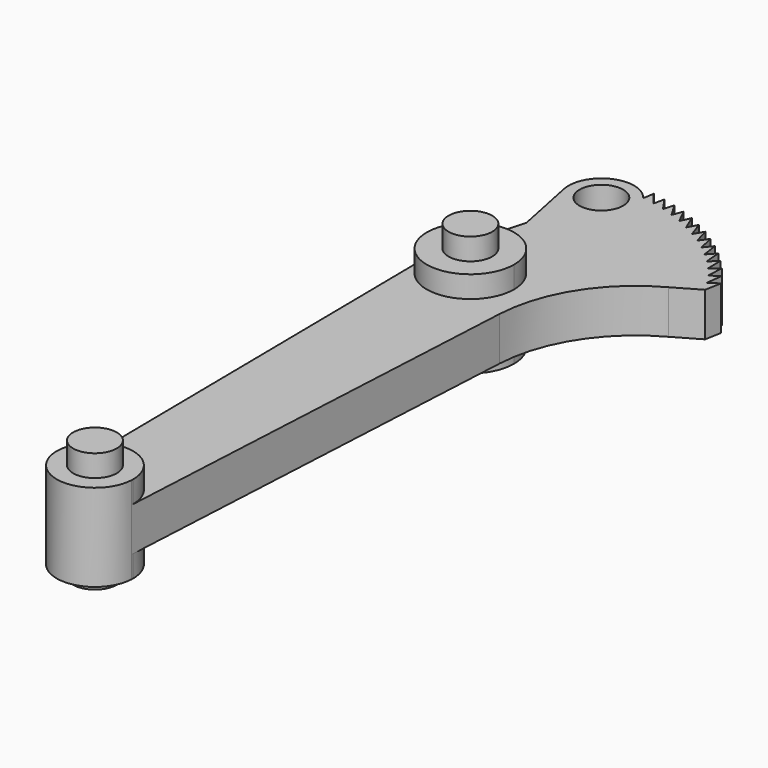
from build123d import *

# Parameters (mm, degrees)
F0_R     = 1.5875
F1_DEPTH = 1.5875
F2_DEPTH = 3.175
F3_DEPTH = 4.7625
F4_DEPTH = 3.96875
F5_DEPTH = 4.7625
F6_DEPTH = 3.96875


with BuildPart() as f1:
    # F0 (on Top) → F1 (new body, symmetric)
    with BuildSketch(Plane.XY):
        with BuildLine():
            ThreePointArc((-2.777937, -0.032304), (-0.016152, 2.778078), (2.778125, 0))
            ThreePointArc((2.778125, 0), (2.777173, -0.072723), (2.774318, -0.145396))
            Line((2.774318, -0.145396), (4.420393, 31.263601))
            ThreePointArc((4.420393, 31.263601), (6.012684, 36.252765), (9.849166, 39.817669))
            Line((9.849166, 39.817669), (11.676115, 40.872458))
            Line((11.676115, 40.872458), (11.892255, 42.049692))
            Line((11.892255, 42.049692), (11.21562, 41.613591))
            Line((11.21562, 41.613591), (11.355159, 42.80234))
            Line((11.355159, 42.80234), (10.70815, 42.323385))
            Line((10.70815, 42.323385), (10.770505, 43.518671))
            Line((10.770505, 43.518671), (10.155831, 42.998868))
            Line((10.155831, 42.998868), (10.14074, 44.195684))
            Line((10.14074, 44.195684), (9.560976, 43.637211))
            Line((9.560976, 43.637211), (9.468503, 44.830544))
            Line((9.468503, 44.830544), (8.926077, 44.235739))
            Line((8.926077, 44.235739), (8.756609, 45.420592))
            Line((8.756609, 45.420592), (8.253793, 44.791947))
            Line((8.253793, 44.791947), (8.008039, 45.963357))
            Line((8.008039, 45.963357), (7.546939, 45.303504))
            Line((7.546939, 45.303504), (7.225929, 46.456565))
            Line((7.225929, 46.456565), (6.808476, 45.768269))
            Line((6.808476, 45.768269), (6.413555, 46.898151))
            Line((6.413555, 46.898151), (6.041497, 46.184294))
            Line((6.041497, 46.184294), (5.574319, 47.286265))
            Line((5.574319, 47.286265), (5.249215, 46.549837))
            Line((5.249215, 46.549837), (4.711735, 47.619282))
            Line((4.711735, 47.619282), (4.434947, 46.863367))
            Line((4.434947, 46.863367), (3.829418, 47.895806))
            Line((3.829418, 47.895806), (3.602104, 47.123571))
            Line((3.602104, 47.123571), (2.931061, 48.11468))
            Line((2.931061, 48.11468), (2.754174, 47.329359))
            Line((2.754174, 47.329359), (2.020429, 48.274988))
            Line((2.020429, 48.274988), (1.894709, 47.479869))
            ThreePointArc((1.894709, 47.479869), (-0.984038, 48.205914), (-2.333139, 45.56125))
            Line((-2.333139, 45.56125), (-1.398565, 40.982793))
            Line((-1.398565, 40.982793), (-3.06003, 34.977917))
            ThreePointArc((-3.06003, 34.977917), (0.427219, 37.277376), (3.175, 34.13125))
            ThreePointArc((3.175, 34.13125), (0.01846, 30.956304), (-3.174785, 34.094331))
            Line((-3.174785, 34.094331), (-2.777937, -0.032304))
        make_face()
        with Locations((0, 46.0375)):
            Circle(F0_R, mode=Mode.SUBTRACT)
    extrude(amount=F1_DEPTH, both=True)

    # F0 (on Top) → F2 (join, symmetric)
    with BuildSketch(Plane.XY):
        with BuildLine():
            ThreePointArc((-3.06003, 34.977917), (-3.148557, 34.54017), (-3.174785, 34.094331))
            ThreePointArc((-3.174785, 34.094331), (0.01846, 30.956304), (3.175, 34.13125))
            ThreePointArc((3.175, 34.13125), (0.427219, 37.277376), (-3.06003, 34.977917))
        make_face()
        with Locations((0, 34.13125)):
            Circle(F0_R, mode=Mode.SUBTRACT)
        with BuildLine():
            ThreePointArc((2.774318, -0.145396), (2.777173, -0.072723), (2.778125, 0))
            ThreePointArc((2.778125, 0), (-0.016152, 2.778078), (-2.777937, -0.032304))
            ThreePointArc((-2.777937, -0.032304), (-0.056575, -2.777549), (2.774318, -0.145396))
        make_face()
        Circle(F0_R, mode=Mode.SUBTRACT)
    extrude(amount=F2_DEPTH, both=True)

    # F0 (on Top) → F3 (join)
    with BuildSketch(Plane.XY):
        with Locations((0, 34.13125)):
            Circle(F0_R)
    extrude(amount=F3_DEPTH)

    # F0 (on Top) → F4 (join)
    with BuildSketch(Plane.XY):
        with Locations((0, 34.13125)):
            Circle(F0_R)
    extrude(amount=-F4_DEPTH)

    # F0 (on Top) → F5 (join)
    with BuildSketch(Plane.XY):
        Circle(F0_R)
    extrude(amount=F5_DEPTH)

    # F0 (on Top) → F6 (join)
    with BuildSketch(Plane.XY):
        Circle(F0_R)
    extrude(amount=-F6_DEPTH)


solid = f1.part
